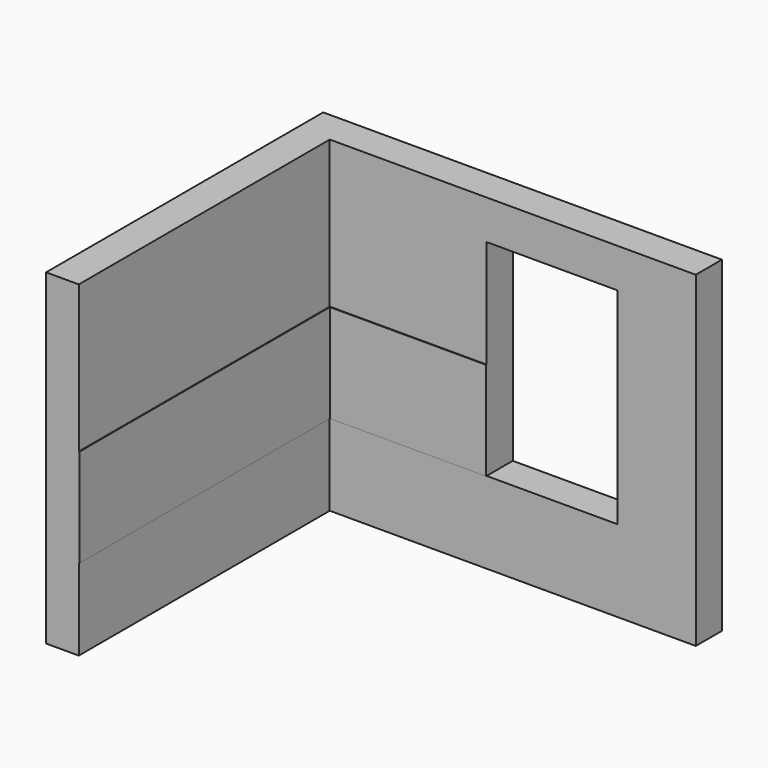
from build123d import *

# Parameters (mm, degrees)
F1_DEPTH = 2500
F2_W     = 1000
F2_H     = 1575
F3_DEPTH = 250.001
F4_W     = 1200
F4_H     = 750
F5_DEPTH = 5
F7_W     = 2400
F7_H     = 750
F8_DEPTH = 5


with BuildPart() as f1:
    # F0 (on Top) → F1 (new body)
    with BuildSketch(Plane.XY):
        Polygon((0, -2400), (0, 0), (2800, 0), (2800, 250), (-250, 250), (-250, -2400), align=None)
    extrude(amount=F1_DEPTH)

    # F2 (on face) → F3 (cut, through all)
    with BuildSketch(Plane.XZ):
        with Locations((1700, 1412.5)):
            Rectangle(F2_W, F2_H)
    extrude(amount=-F3_DEPTH, mode=Mode.SUBTRACT)

    # F4 (on face) → F5 (join)
    with BuildSketch(Plane.XZ):
        with Locations((600, 1000)):
            Rectangle(F4_W, F4_H)
    extrude(amount=F5_DEPTH)

    # F7 (on face) → F8 (join)
    with BuildSketch(Plane.YZ):
        with Locations((-1200, 1000)):
            Rectangle(F7_W, F7_H)
    extrude(amount=F8_DEPTH)


solid = f1.part
